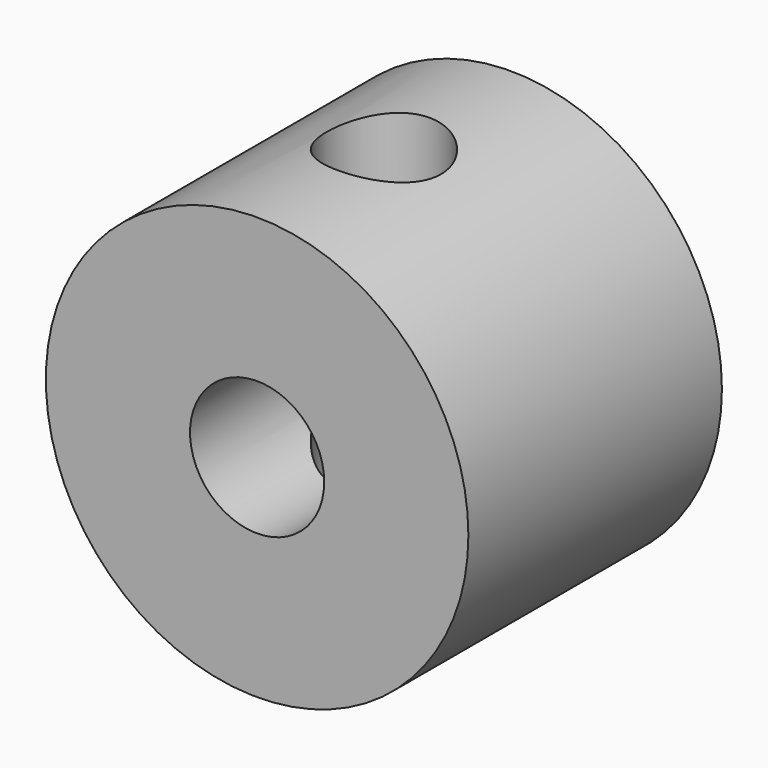
from build123d import *

# Parameters (mm, degrees)
F0_R     = 10
F0_R_2   = 3.175
F1_DEPTH = 7.5
F4_D     = 5.4102


with BuildPart() as f1:
    # F0 (on Front) → F1 (new body, symmetric)
    with BuildSketch(Plane.XZ):
        Circle(F0_R)
        Circle(F0_R_2, mode=Mode.SUBTRACT)
    extrude(amount=F1_DEPTH, both=True)

    # F4 (through all)
    with Locations(Plane.XY.offset(12.7)):
        with Locations((0, 0)):
            Hole(F4_D / 2)


solid = f1.part
